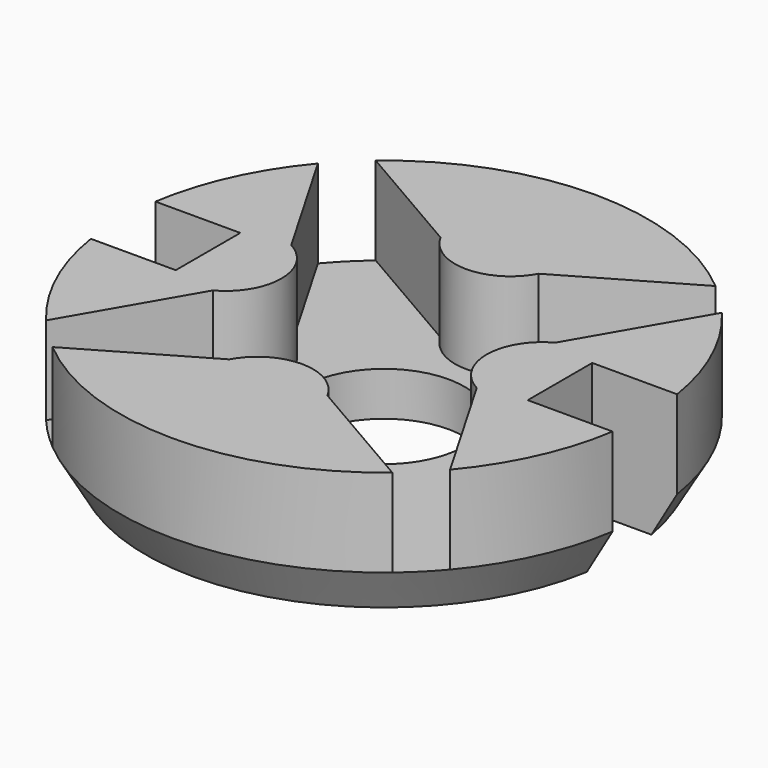
from build123d import *

# Parameters (mm, degrees)
F0_R          = 18
F1_DEPTH      = 6
F1_DEPTH_BACK = 3
F1_TAPER_BACK = 30
F3_DEPTH      = 6.001
F5_D          = 11
F6_W          = 20
F6_H          = 5.5
F7_DEPTH      = 12.5
F8_R          = 2


with BuildPart() as f1:
    # F0 (on Top) → F1 (new body, two sides)
    with BuildSketch(Plane.XY) as f1_sk:
        Circle(F0_R)
    extrude(amount=F1_DEPTH)
    extrude(f1_sk.sketch, amount=-F1_DEPTH_BACK, taper=F1_TAPER_BACK)

    # F2 (on Top) → F3 (cut, through all)
    with BuildSketch(Plane.XY):
        with BuildLine():
            Line((-3.3431457505, 9), (-12.571075856, 14.3476765405))
            ThreePointArc((-12.571075856, 14.3476765405), (-14.1421356237, 14.1421356237), (-14.3476765405, 12.571075856))
            Line((-14.3476765405, 12.571075856), (-9, 3.3431457505))
            ThreePointArc((-9, 3.3431457505), (-7, 0), (-9, -3.3431457505))
            Line((-9, -3.3431457505), (-14.3476765405, -12.571075856))
            ThreePointArc((-14.3476765405, -12.571075856), (-14.1421356237, -14.1421356237), (-12.571075856, -14.3476765405))
            Line((-12.571075856, -14.3476765405), (-3.3431457505, -9))
            ThreePointArc((-3.3431457505, -9), (0, -7), (3.3431457505, -9))
            Line((3.3431457505, -9), (12.571075856, -14.3476765405))
            ThreePointArc((12.571075856, -14.3476765405), (14.1421356237, -14.1421356237), (14.3476765405, -12.571075856))
            Line((14.3476765405, -12.571075856), (9, -3.3431457505))
            ThreePointArc((9, -3.3431457505), (7, 0), (9, 3.3431457505))
            Line((9, 3.3431457505), (14.3476765405, 12.571075856))
            ThreePointArc((14.3476765405, 12.571075856), (14.1421356237, 14.1421356237), (12.571075856, 14.3476765405))
            Line((12.571075856, 14.3476765405), (3.3431457505, 9))
            ThreePointArc((3.3431457505, 9), (0, 7), (-3.3431457505, 9))
        make_face()
    extrude(amount=F3_DEPTH, mode=Mode.SUBTRACT)

    # F5 (through all)
    with Locations(Plane.XY):
        with Locations((0, 0)):
            Hole(F5_D / 2)

    # F6 (on Top) → F7 (cut, symmetric)
    with BuildSketch(Plane.XY):
        with Locations((-22, 0)):
            Rectangle(F6_W, F6_H)
        with Locations((22, 0)):
            Rectangle(F6_W, F6_H)
    extrude(amount=F7_DEPTH, both=True, mode=Mode.SUBTRACT)

    # F8
    f8_edges = [f1.edges().sort_by_distance(p)[0] for p in [
        (-12, 0, -3),
        (12, 0, -3),
    ]]
    fillet(f8_edges, radius=F8_R)


solid = f1.part
